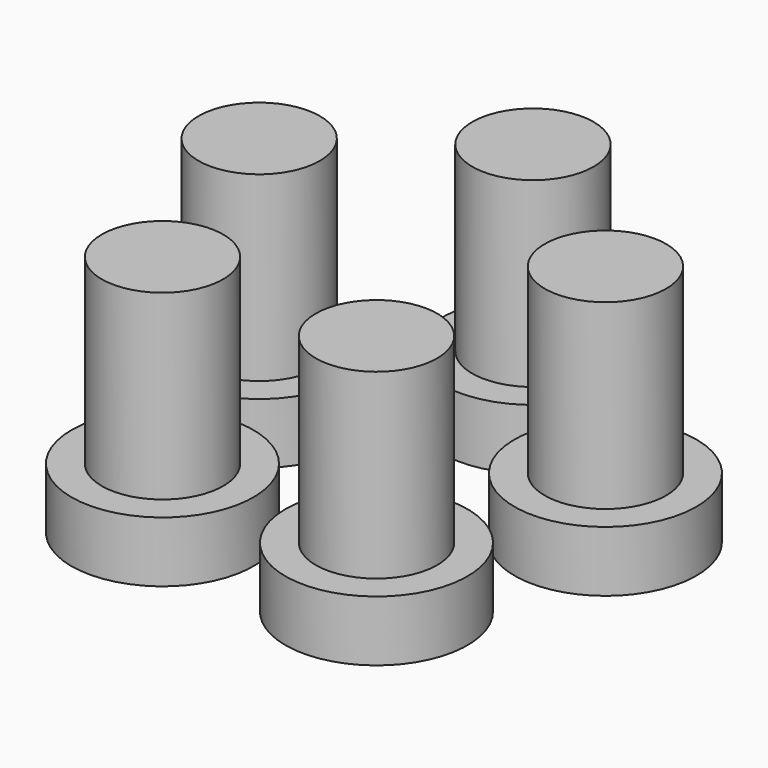
from build123d import *

# Parameters (mm, degrees)
F0_R     = 3.81
F1_DEPTH = 2.54
F2_R     = 2.54
F3_DEPTH = 7.62
F5_COUNT = 5


with BuildPart() as f1:
    # F0 (on Top) → F1 (new body)
    with BuildSketch(Plane.XY):
        Circle(F0_R)
    extrude(amount=F1_DEPTH)

    # F2 (on face) → F3 (join)
    with BuildSketch(Plane.XY.offset(2.54)):
        Circle(F2_R)
    extrude(amount=F3_DEPTH)


with BuildPart() as f5_1:
    # F5: instance of F1
    add(f1.part.rotate(Axis((0, -7.62, 4.203479), (0, 0, -1)), 1 * 360 / F5_COUNT))


with BuildPart() as f5_2:
    # F5: instance of F1
    add(f1.part.rotate(Axis((0, -7.62, 4.203479), (0, 0, -1)), 2 * 360 / F5_COUNT))


with BuildPart() as f5_3:
    # F5: instance of F1
    add(f1.part.rotate(Axis((0, -7.62, 4.203479), (0, 0, -1)), 3 * 360 / F5_COUNT))


with BuildPart() as f5_4:
    # F5: instance of F1
    add(f1.part.rotate(Axis((0, -7.62, 4.203479), (0, 0, -1)), 4 * 360 / F5_COUNT))


solid = Compound([f1.part, f5_1.part, f5_2.part, f5_3.part, f5_4.part])
